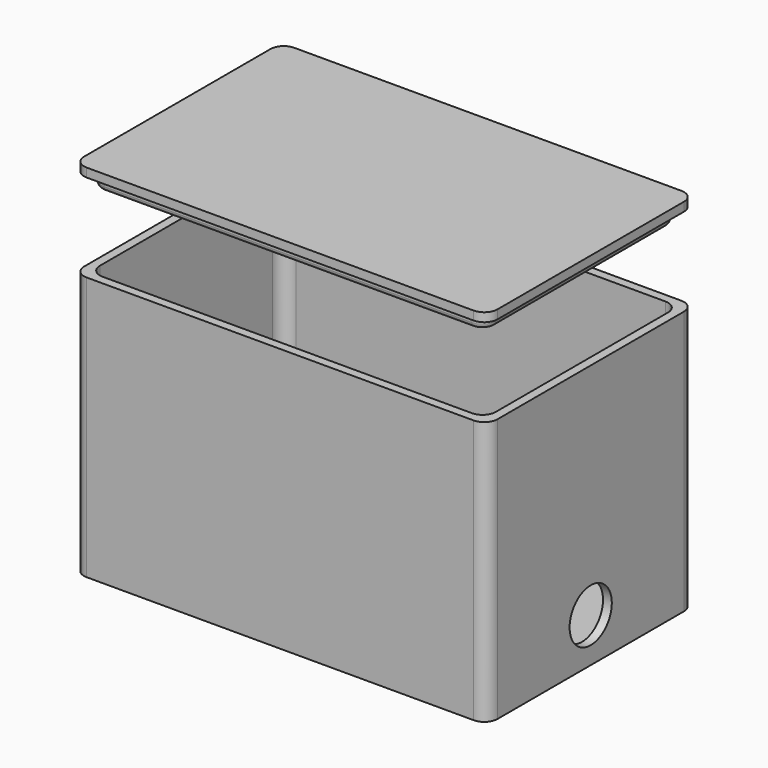
from build123d import *

# Parameters (mm, degrees)
F0_W      = 94
F0_H      = 59
F0_W_2    = 90
F0_H_2    = 55
F1_DEPTH  = 60
F2_DEPTH  = 3
F3_R      = 6
F4_DEPTH  = 5
F5_R      = 3
F7_W      = 94
F7_H      = 59
F7_W_2    = 90
F7_H_2    = 55
F8_DEPTH  = 2
F9_R      = 3
F10_W     = 89.6
F10_H     = 54.6
F10_W_2   = 85.6
F10_H_2   = 50.6
F11_DEPTH = 3
F12_R     = 3
F13_R     = 1


with BuildPart() as f1:
    # F0 (on Top) → F1 (new body)
    with BuildSketch(Plane.XY):
        Rectangle(F0_W, F0_H)
        Rectangle(F0_W_2, F0_H_2, mode=Mode.SUBTRACT)
    extrude(amount=F1_DEPTH)

    # F0 (on Top) → F2 (join)
    with BuildSketch(Plane.XY):
        Rectangle(F0_W_2, F0_H_2)
    extrude(amount=F2_DEPTH)

    # F3 (on face) → F4 (cut)
    with BuildSketch(Plane.YZ.offset(47)):
        with Locations((0, 10)):
            Circle(F3_R)
    extrude(amount=-F4_DEPTH, mode=Mode.SUBTRACT)

    # F5
    f5_edges = [f1.edges().sort_by_distance(p)[0] for p in [
        (47, -29.5, 30),
        (47, 29.5, 30),
        (-47, 29.5, 30),
        (-47, -29.5, 30),
        (-45, 27.5, 31.5),
        (-45, -27.5, 31.5),
        (45, 27.5, 31.5),
        (45, -27.5, 31.5),
    ]]
    fillet(f5_edges, radius=F5_R)


with BuildPart() as f8:
    # F7 (on offset) → F8 (new body)
    with BuildSketch(Plane.XY.offset(80)):
        Rectangle(F7_W, F7_H)
        Rectangle(F7_W_2, F7_H_2, mode=Mode.SUBTRACT)
        Rectangle(F7_W_2, F7_H_2)
    extrude(amount=F8_DEPTH)

    # F9
    f9_edges = [f8.edges().sort_by_distance(p)[0] for p in [
        (-47, 29.5, 81),
        (-47, -29.5, 81),
        (47, -29.5, 81),
        (47, 29.5, 81),
    ]]
    fillet(f9_edges, radius=F9_R)

    # F10 (on face) → F11 (join)
    with BuildSketch(Plane(origin=(0, 0, 80), x_dir=(1, 0, 0), z_dir=(0, 0, -1))):
        Rectangle(F10_W, F10_H)
        Rectangle(F10_W_2, F10_H_2, mode=Mode.SUBTRACT)
    extrude(amount=F11_DEPTH)

    # F12
    f12_edges = [f8.edges().sort_by_distance(p)[0] for p in [
        (44.8, -27.3, 78.5),
        (-44.8, -27.3, 78.5),
        (42.8, -25.3, 78.5),
        (44.8, 27.3, 78.5),
        (-42.8, -25.3, 78.5),
        (-44.8, 27.3, 78.5),
        (42.8, 25.3, 78.5),
        (-42.8, 25.3, 78.5),
    ]]
    fillet(f12_edges, radius=F12_R)

    # F13
    f13_edges = [f8.edges().sort_by_distance(p)[0] for p in [
        (0, 27.3, 77),
        (-43.92132, 26.42132, 77),
        (-44.8, 0, 77),
        (-43.92132, -26.42132, 77),
        (0, -27.3, 77),
        (44.8, 0, 77),
        (43.92132, -26.42132, 77),
        (43.92132, 26.42132, 77),
    ]]
    fillet(f13_edges, radius=F13_R)


solid = Compound([f1.part, f8.part])
